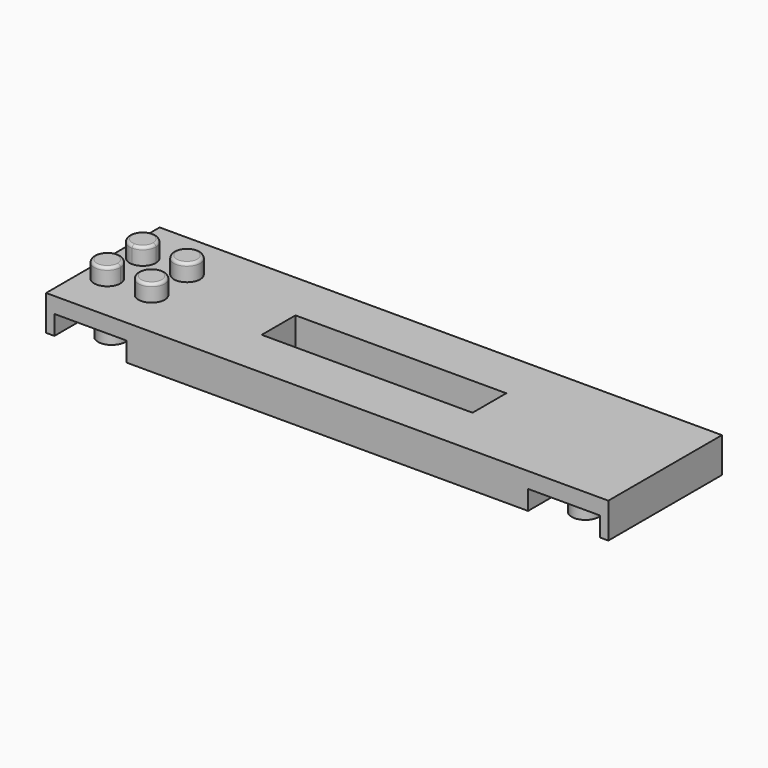
from build123d import *

# Parameters (mm, degrees)
F0_W      = 101.6
F0_H      = 32.004
F1_DEPTH  = 6.35
F2_R      = 2.372595
F3_DEPTH  = 3.048
F4_R      = 0.508
F5_W      = 13.0048
F5_H      = 29.0068
F5_R      = 2.465374
F5_R_2    = 1.587812
F6_DEPTH  = 3.5052
F7_W      = 101.6
F7_H      = 3.175
F8_DEPTH  = 6.35
F9_W      = 38.1
F9_H      = 7.62
F10_DEPTH = 6.35


with BuildPart() as f1:
    # F0 (on Top) → F1 (new body)
    with BuildSketch(Plane.XY):
        with Locations((50.8, 16.002)):
            Rectangle(F0_W, F0_H)
    extrude(amount=F1_DEPTH)

    # F2 (on face) → F3 (join)
    with BuildSketch(Plane.XY.offset(6.35)):
        with Locations((12.0015, 20.0025)):
            Circle(F2_R)
        with Locations((12.0015, 12.0015)):
            Circle(F2_R)
        with BuildLine():
            ThreePointArc((6.373095, 12.0015), (5.678178, 13.679178), (4.0005, 14.374095))
            ThreePointArc((4.0005, 14.374095), (2.322822, 10.323822), (6.373095, 12.0015))
        make_face()
        with BuildLine():
            ThreePointArc((4.0005, 17.629905), (5.678178, 18.324822), (6.373095, 20.0025))
            ThreePointArc((6.373095, 20.0025), (2.322822, 21.680178), (4.0005, 17.629905))
        make_face()
    extrude(amount=F3_DEPTH)

    # F4
    f4_edges = [f1.edges().sort_by_distance(p)[0] for p in [
        (9.628905, 20.0025, 9.398),
        (4.0005, 22.375095, 9.398),
        (1.627905, 12.0015, 9.398),
        (9.628905, 12.0015, 9.398),
    ]]
    fillet(f4_edges, radius=F4_R)

    # F5 (on face) → F6 (cut)
    with BuildSketch(Plane(origin=(0, 0, 0), x_dir=(1, 0, 0), z_dir=(0, 0, -1))):
        with Locations((8.001, -16.002)):
            Rectangle(F5_W, F5_H)
        with Locations((8.001, -24.003)):
            Circle(F5_R, mode=Mode.SUBTRACT)
        with Locations((8.001, -16.002)):
            Circle(F5_R, mode=Mode.SUBTRACT)
        with Locations((8.001, -8.001)):
            Circle(F5_R, mode=Mode.SUBTRACT)
        with Locations((93.599, -16.002)):
            Rectangle(F5_W, F5_H)
        with Locations((93.599, -24.003)):
            Circle(F5_R, mode=Mode.SUBTRACT)
        with Locations((93.599, -16.002)):
            Circle(F5_R, mode=Mode.SUBTRACT)
        with Locations((93.599, -8.001)):
            Circle(F5_R, mode=Mode.SUBTRACT)
        with Locations((8.001, -8.001)):
            Circle(F5_R_2)
        with Locations((8.001, -16.002)):
            Circle(F5_R_2)
        with Locations((8.001, -24.003)):
            Circle(F5_R_2)
        with Locations((93.599, -8.001)):
            Circle(F5_R_2)
        with Locations((93.599, -16.002)):
            Circle(F5_R_2)
        with Locations((93.599, -24.003)):
            Circle(F5_R_2)
    extrude(amount=-F6_DEPTH, mode=Mode.SUBTRACT)

    # F7 (on face) → F8 (cut, through all)
    with BuildSketch(Plane(origin=(0, 0, 0), x_dir=(1, 0, 0), z_dir=(0, 0, -1))):
        with Locations((50.8, -30.4165)):
            Rectangle(F7_W, F7_H)
        with Locations((50.8, -1.5875)):
            Rectangle(F7_W, F7_H)
    extrude(amount=-F8_DEPTH, mode=Mode.SUBTRACT)

    # F9 (on face) → F10 (cut, through all)
    with BuildSketch(Plane.XY.offset(6.35)):
        with Locations((50.8, 16.002)):
            Rectangle(F9_W, F9_H)
    extrude(amount=-F10_DEPTH, mode=Mode.SUBTRACT)


solid = f1.part
